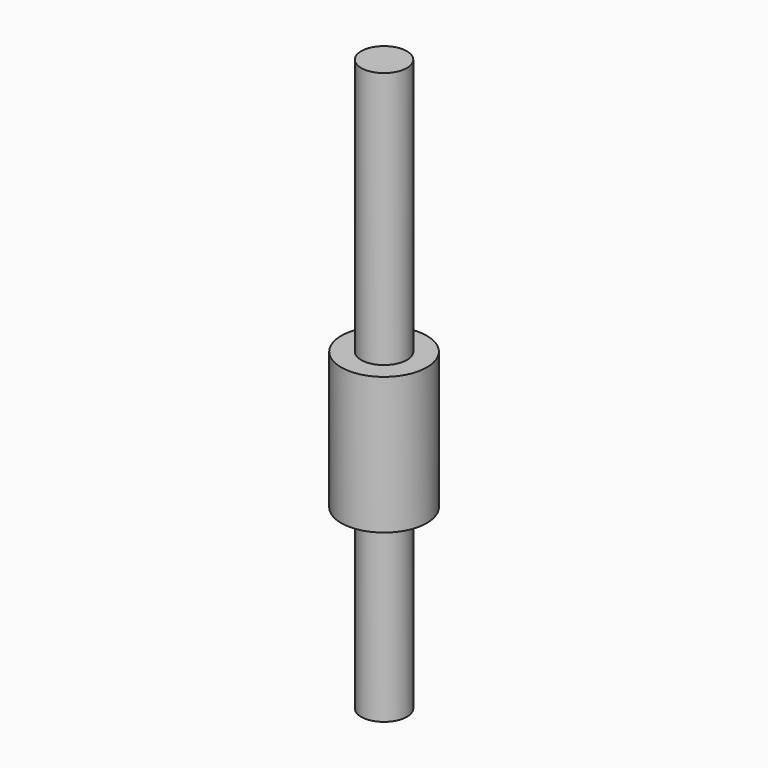
from build123d import *

# Parameters (mm, degrees)
CYLINDER007_R     = 4
CYLINDER007_DEPTH = 100
CYLINDER013_R     = 7.5
CYLINDER013_DEPTH = 24


with BuildPart() as rod_cylinder:
    # Cylinder007 → Cylinder007 (new body)
    with BuildSketch(Plane(origin=(42, 0, -122), x_dir=(1, 0, 0), z_dir=(0, 0, 1))):
        Circle(CYLINDER007_R)
    extrude(amount=CYLINDER007_DEPTH)


with BuildPart() as rod_fusion:
    # Cylinder013 → Cylinder013 (new body)
    with BuildSketch(Plane(origin=(42, 0, -91), x_dir=(1, 0, 0), z_dir=(0, 0, 1))):
        Circle(CYLINDER013_R)
    extrude(amount=CYLINDER013_DEPTH)

    # Fusion005: union rod cylinder
    add(rod_cylinder.part)


solid = rod_fusion.part
